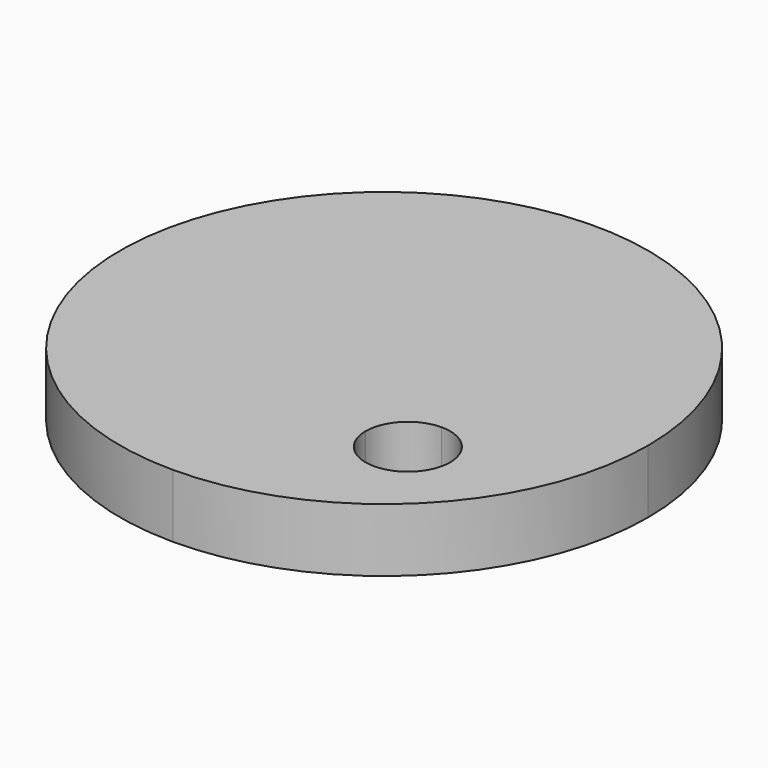
from build123d import *

# Parameters (mm, degrees)
F1_DEPTH = 6


with BuildPart() as f1:
    # F0 (on Top) → F1 (new body)
    with BuildSketch(Plane.XY):
        with BuildLine():
            Line((11.25, 0), (25, 0))
            ThreePointArc((25, 0), (-17.67767, 17.67767), (0, -25))
            Line((0, -25), (0, -11.25))
            Line((0, -11.25), (7.25, -11.25))
            ThreePointArc((7.25, -11.25), (8.421573, -8.421573), (11.25, -7.25))
            Line((11.25, -7.25), (11.25, 0))
        make_face()
        with BuildLine():
            ThreePointArc((0, -25), (17.67767, -17.67767), (25, 0))
            Line((25, 0), (11.25, 0))
            Line((11.25, 0), (11.25, -7.25))
            ThreePointArc((11.25, -7.25), (14.078427, -8.421573), (15.25, -11.25))
            ThreePointArc((15.25, -11.25), (11.25, -15.25), (7.25, -11.25))
            Line((7.25, -11.25), (0, -11.25))
            Line((0, -11.25), (0, -25))
        make_face()
    extrude(amount=F1_DEPTH)


solid = f1.part
